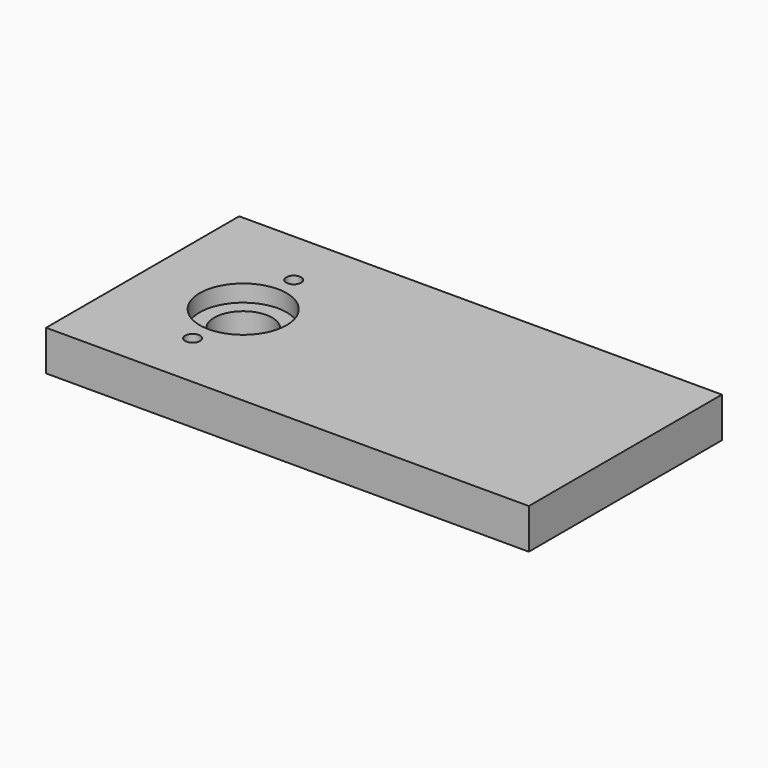
from build123d import *

# Parameters (mm, degrees)
F0_W     = 304.8
F0_H     = 152.4
F1_DEPTH = 25.4
F2_R     = 18.288
F3_DEPTH = 25.401
F4_R     = 27.432
F5_DEPTH = 10.668
F6_R     = 4.699
F7_DEPTH = 25.401


with BuildPart() as f1:
    # F0 (on Top) → F1 (new body)
    with BuildSketch(Plane.XY):
        Rectangle(F0_W, F0_H)
    extrude(amount=-F1_DEPTH)

    # F2 (on face) → F3 (cut, through all)
    with BuildSketch(Plane.XY):
        with Locations((-88.9, 0)):
            Circle(F2_R)
    extrude(amount=-F3_DEPTH, mode=Mode.SUBTRACT)

    # F4 (on face) → F5 (cut)
    with BuildSketch(Plane.XY):
        with Locations((-88.9, 0)):
            Circle(F4_R)
    extrude(amount=-F5_DEPTH, mode=Mode.SUBTRACT)

    # F6 (on face) → F7 (cut, through all)
    with BuildSketch(Plane.XY):
        with Locations((-88.9, 39.878)):
            Circle(F6_R)
        with Locations((-88.9, -39.878217)):
            Circle(F6_R)
    extrude(amount=-F7_DEPTH, mode=Mode.SUBTRACT)


solid = f1.part
